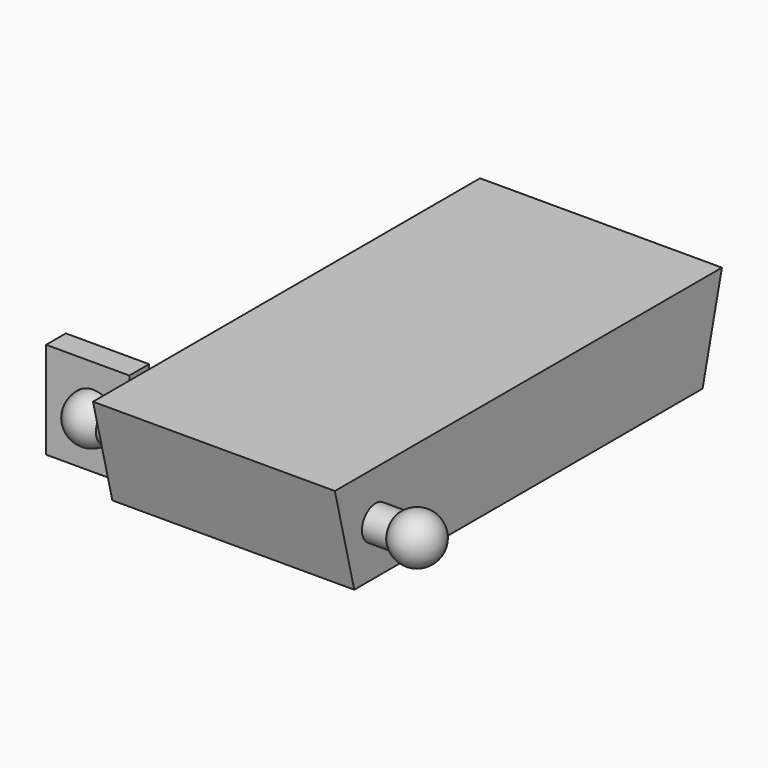
from build123d import *

# Parameters (mm, degrees)
F0_W      = 50
F0_H      = 100
F2_W      = 50
F2_H      = 90
F4_R      = 3.5
F5_DEPTH  = 5
F12_DEPTH = 5.1


with BuildPart() as f3:
    # F0 (on Top) → F3 section 0
    with BuildSketch(Plane.XY):
        Rectangle(F0_W, F0_H)
    # F2 (on offset) → F3 section 1
    with BuildSketch(Plane.XY.offset(-20)):
        Rectangle(F2_W, F2_H)
    loft()

    # F4 (on face) → F5 (join)
    with BuildSketch(Plane(origin=(-25, 0, 0), x_dir=(0, -1, 0), z_dir=(-1, 0, 0))):
        with Locations((39.5, -10)):
            Circle(F4_R)
    extrude(amount=F5_DEPTH)

    # F7 (on line) → F8 (revolve)
    with BuildSketch(Plane.XY.offset(-10)):
        with BuildLine():
            Line((-33.5707142143, -44.5), (-33.5707142143, -34.5))
            ThreePointArc((-33.5707142143, -34.5), (-38.5707142143, -39.5), (-33.5707142143, -44.5))
        make_face()
    revolve(axis=Axis((-33.5707142143, -39.5, -10), (0, 1, 0)))

    # F9: F3 across plane


with BuildPart() as f3_1:
    add(f3.part)
    add(f3.part.mirror(Plane.YZ))


with BuildPart() as f12:
    # F11 (on offset) → F12 (new body)
    with BuildSketch(Plane.XZ.offset(39.2)):
        with BuildLine():
            ThreePointArc((-30, -13.5), (-38.5707142143, -10), (-30, -6.5))
            Line((-30, -6.5), (-26.1227637529, -6.5))
            Line((-26.1227637529, -6.5), (-26.1227637529, 0))
            Line((-26.1227637529, 0), (-43.3382727206, 0))
            Line((-43.3382727206, 0), (-43.3382727206, -20))
            Line((-43.3382727206, -20), (-26.1227637529, -20))
            Line((-26.1227637529, -20), (-26.1227637529, -13.5))
            Line((-26.1227637529, -13.5), (-30, -13.5))
        make_face()
    extrude(amount=-F12_DEPTH)


solid = Compound([f3_1.part, f12.part])
